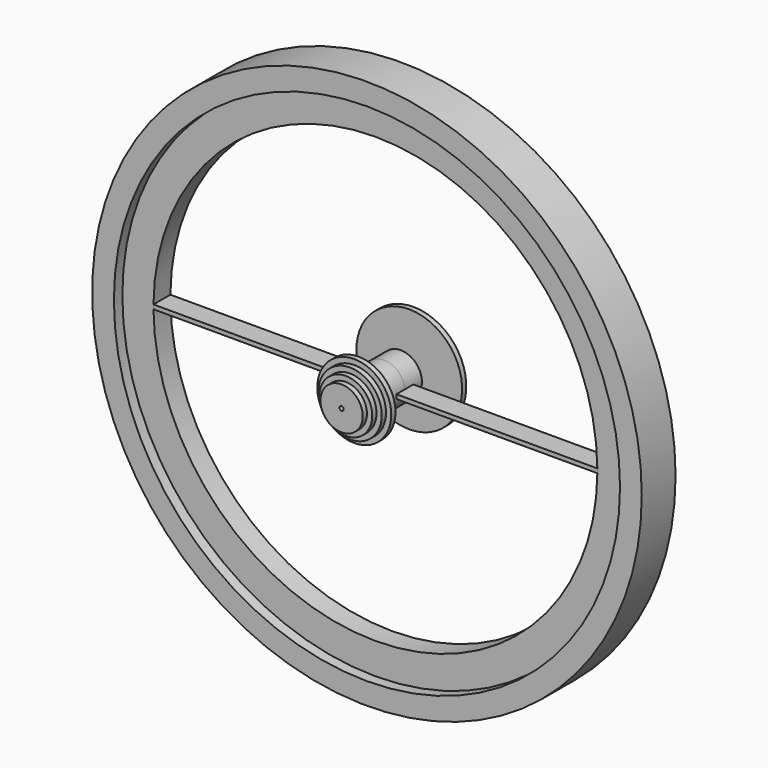
from build123d import *

# Parameters (mm, degrees)
F0_R           = 330.2
F0_R_2         = 266.7
F1_DEPTH       = 25.4
F1_DEPTH_BACK  = 25.4
F3_R           = 44.45
F3_R_2         = 38.1
F4_DEPTH       = 6.35
F3_R_3         = 31.75
F5_DEPTH       = 12.7
F3_R_4         = 25.4
F6_DEPTH       = 19.05
F3_R_5         = 19.05
F7_DEPTH       = 25.4
F9_R           = 63.5
F10_DEPTH      = 6.35
F3_R_6         = 6.35
F11_DEPTH      = 25.4
F11_DEPTH_BACK = 76.2
F12_R          = 19.05
F12_R_2        = 2.54
F13_DEPTH      = 25.4
F14_DEPTH      = 107.951
F16_DEPTH      = 12.7
F16_DEPTH_BACK = 12.7
F17_DEPTH      = 107.951
F18_R          = 25.4
F19_DEPTH      = 25.4
F19_DEPTH_BACK = 25.4
F20_R          = 304.0753924765
F20_R_2        = 266.7
F21_DEPTH      = 12.7
F22_R          = 304.0753924765
F22_R_2        = 266.7
F23_DEPTH      = 12.7


with BuildPart() as f1:
    # F0 (on Front) → F1 (new body, two sides)
    with BuildSketch(Plane.XZ) as f1_sk:
        Circle(F0_R)
        Circle(F0_R_2, mode=Mode.SUBTRACT)
    extrude(amount=F1_DEPTH)
    extrude(f1_sk.sketch, amount=-F1_DEPTH_BACK)



with BuildPart() as f4:
    # F3 (on offset) → F4 (new body)
    with BuildSketch(Plane.XZ.offset(38.1)):
        Circle(F3_R)
        Circle(F3_R_2, mode=Mode.SUBTRACT)
    extrude(amount=F4_DEPTH)

    # F3 (on offset) → F5 (join)
    with BuildSketch(Plane.XZ.offset(38.1)):
        Circle(F3_R_2)
        Circle(F3_R_3, mode=Mode.SUBTRACT)
    extrude(amount=F5_DEPTH)

    # F3 (on offset) → F6 (join)
    with BuildSketch(Plane.XZ.offset(38.1)):
        Circle(F3_R_3)
        Circle(F3_R_4, mode=Mode.SUBTRACT)
    extrude(amount=F6_DEPTH)

    # F3 (on offset) → F7 (join)
    with BuildSketch(Plane.XZ.offset(38.1)):
        Circle(F3_R_4)
        Circle(F3_R_5, mode=Mode.SUBTRACT)
    extrude(amount=F7_DEPTH)



with BuildPart() as f10:
    # F9 (on offset) → F10 (new body)
    with BuildSketch(Plane(origin=(0, 38.1, 0), x_dir=(-1, 0, 0), z_dir=(0, 1, 0))):
        Circle(F9_R)
    extrude(amount=F10_DEPTH)

    # F3 (on offset) → F11 (join, two sides)
    with BuildSketch(Plane.XZ.offset(38.1)) as f11_sk:
        Circle(F3_R_6)
    extrude(amount=F11_DEPTH)
    extrude(f11_sk.sketch, amount=-F11_DEPTH_BACK)


with BuildPart() as f4_1:
    add(f4.part)

    add(f10.part)  # F13 merges F10
    # F12 (on face) → F13 (join)
    with BuildSketch(Plane.XZ.offset(63.5)):
        Circle(F12_R)
        Circle(F12_R_2, mode=Mode.SUBTRACT)
    extrude(amount=-F13_DEPTH)

    # F12 (on face) → F14 (cut, through all)
    with BuildSketch(Plane.XZ.offset(63.5)):
        Circle(F12_R_2)
    extrude(amount=-F14_DEPTH, mode=Mode.SUBTRACT)


with BuildPart() as f1_1:
    add(f1.part)

    add(f4_1.part)  # F16 merges F4
    # F15 (on Front) → F16 (join, two sides)
    with BuildSketch(Plane.XZ) as f16_sk:
        with BuildLine():
            Line((304.8, 2.54), (5.8198711326, 2.54))
            ThreePointArc((5.8198711326, 2.54), (6.2160550871, 1.2973662374), (6.35, 0))
            ThreePointArc((6.35, 0), (6.2160550871, -1.2973662374), (5.8198711326, -2.54))
            Line((5.8198711326, -2.54), (304.8, -2.54))
            Line((304.8, -2.54), (304.8, 2.54))
        make_face()
        with BuildLine():
            ThreePointArc((-5.8198711326, -2.54), (-6.35, 0), (-5.8198711326, 2.54))
            Line((-5.8198711326, 2.54), (-304.8, 2.54))
            Line((-304.8, 2.54), (-304.8, -2.54))
            Line((-304.8, -2.54), (-5.8198711326, -2.54))
        make_face()
    extrude(amount=F16_DEPTH)
    extrude(f16_sk.sketch, amount=-F16_DEPTH_BACK)

    # F12 (on face) → F17 (cut, through all)
    with BuildSketch(Plane.XZ.offset(63.5)):
        Circle(F12_R_2)
    extrude(amount=-F17_DEPTH, mode=Mode.SUBTRACT)

    # F18 (on Front) → F19 (join, two sides)
    with BuildSketch(Plane.XZ) as f19_sk:
        Circle(F18_R)
    extrude(amount=F19_DEPTH)
    extrude(f19_sk.sketch, amount=-F19_DEPTH_BACK)

    # F20 (on face) → F21 (cut)
    with BuildSketch(Plane.XZ.offset(25.4)):
        Circle(F20_R)
        Circle(F20_R_2, mode=Mode.SUBTRACT)
    extrude(amount=-F21_DEPTH, mode=Mode.SUBTRACT)

    # F22 (on face) → F23 (cut)
    with BuildSketch(Plane(origin=(0, 25.4, 0), x_dir=(-1, 0, 0), z_dir=(0, 1, 0))):
        Circle(F22_R)
        Circle(F22_R_2, mode=Mode.SUBTRACT)
    extrude(amount=-F23_DEPTH, mode=Mode.SUBTRACT)


solid = f1_1.part
